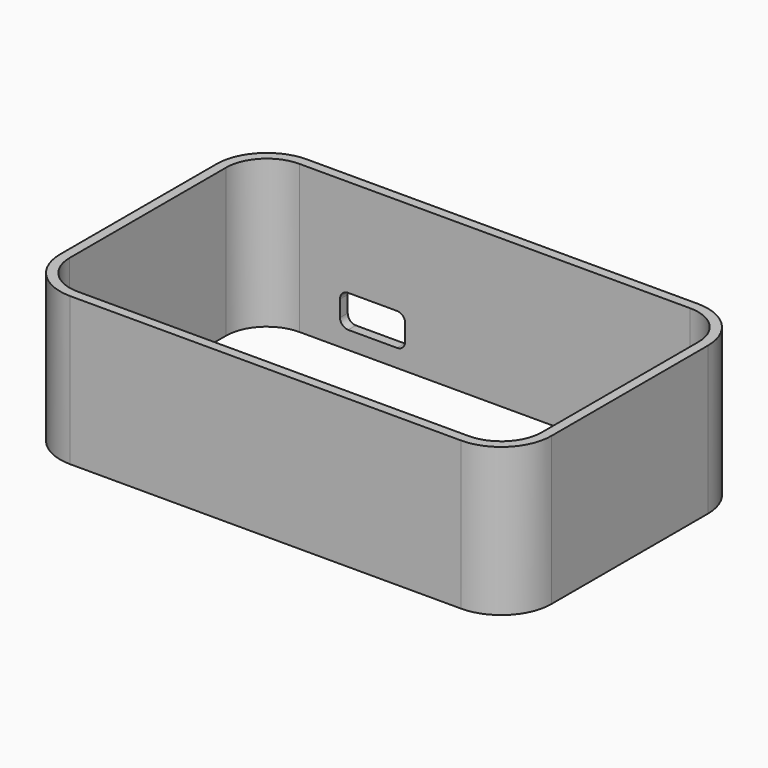
from build123d import *

# Parameters (mm, degrees)
PAD016_DEPTH    = 46.1772
SKETCH026_W     = 20.32
SKETCH026_H     = 10.16
POCKET004_DEPTH = 2.9972
FILLET_R        = 2.54


with BuildPart() as part:
    # Sketch019 → Pad016 (new body)
    with BuildSketch(Plane.XY.offset(8.5852)):
        with BuildLine():
            Line((-60.96, 46.1772), (60.96, 46.1772))
            ThreePointArc((76.6572, 30.48), (72.059597, 41.579597), (60.96, 46.1772))
            Line((76.6572, 30.48), (76.6572, -30.48))
            ThreePointArc((60.96, -46.1772), (72.059597, -41.579597), (76.6572, -30.48))
            Line((60.96, -46.1772), (-60.96, -46.1772))
            ThreePointArc((-76.6572, -30.48), (-72.059597, -41.579597), (-60.96, -46.1772))
            Line((-76.6572, -30.48), (-76.6572, 30.48))
            ThreePointArc((-60.96, 46.1772), (-72.059597, 41.579597), (-76.6572, 30.48))
        make_face()
        with BuildLine():
            Line((-60.96, 43.18), (60.96, 43.18))
            ThreePointArc((73.66, 30.48), (69.940256, 39.460256), (60.96, 43.18))
            Line((73.66, 30.48), (73.66, -30.48))
            ThreePointArc((60.96, -43.18), (69.940256, -39.460256), (73.66, -30.48))
            Line((60.96, -43.18), (-60.96, -43.18))
            ThreePointArc((-73.66, -30.48), (-69.940256, -39.460256), (-60.96, -43.18))
            Line((-73.66, -30.48), (-73.66, 30.48))
            ThreePointArc((-60.96, 43.18), (-69.940256, 39.460256), (-73.66, 30.48))
        make_face(mode=Mode.SUBTRACT)
    extrude(amount=-PAD016_DEPTH)

    # Sketch026 → Pocket004 (cut)
    with BuildSketch(Plane(origin=(0, 46.1772, 8.5852), x_dir=(-1, 0, 0), z_dir=(0, 1, 0))):
        with Locations((38.1, -35.56)):
            Rectangle(SKETCH026_W, SKETCH026_H)
    extrude(amount=-POCKET004_DEPTH, mode=Mode.SUBTRACT)

    # Fillet
    fillet_edges = [part.edges().sort_by_distance(p)[0] for p in [
        (-27.94, 44.6786, -21.8948),
        (-27.94, 44.6786, -32.0548),
        (-48.26, 44.6786, -32.0548),
        (-48.26, 44.6786, -21.8948),
    ]]
    fillet(fillet_edges, radius=FILLET_R)


solid = part.part
